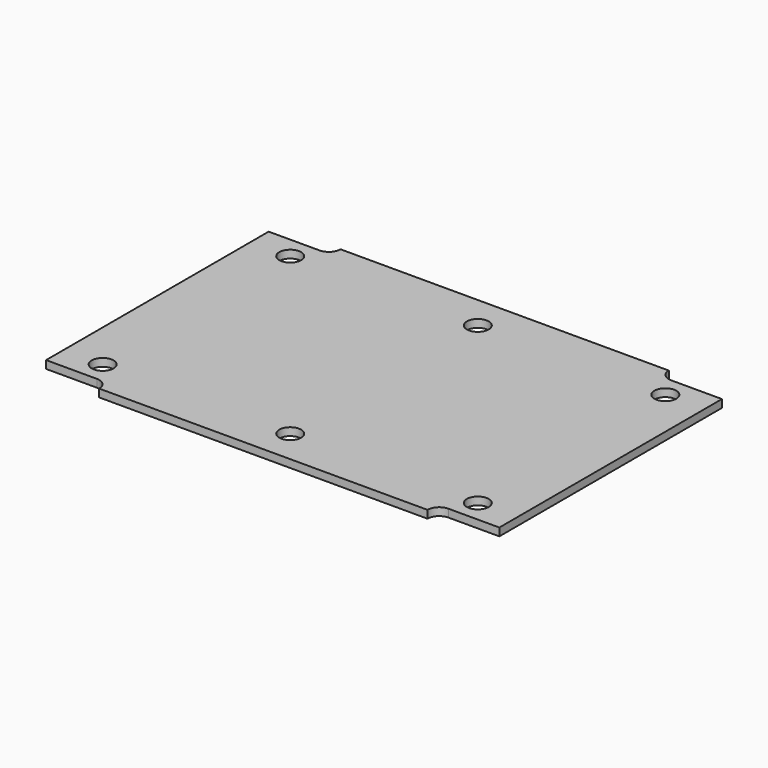
from build123d import *

# Parameters (mm, degrees)
F0_R     = 1.4
F1_DEPTH = 1


with BuildPart() as f1:
    # F0 (on Top) → F1 (new body)
    with BuildSketch(Plane.XY):
        with BuildLine():
            Line((29, 17.8), (22.5, 17.8))
            ThreePointArc((22.5, 17.8), (21.43934, 18.23934), (21, 19.3))
            Line((21, 19.3), (0, 19.3))
            Line((0, 19.3), (-21, 19.3))
            ThreePointArc((-21, 19.3), (-21.43934, 18.23934), (-22.5, 17.8))
            Line((-22.5, 17.8), (-29, 17.8))
            Line((-29, 17.8), (-29, 0))
            Line((-29, 0), (-29, -17.8))
            Line((-29, -17.8), (-22.5, -17.8))
            ThreePointArc((-22.5, -17.8), (-21.43934, -18.23934), (-21, -19.3))
            Line((-21, -19.3), (0, -19.3))
            Line((0, -19.3), (21, -19.3))
            ThreePointArc((21, -19.3), (21.43934, -18.23934), (22.5, -17.8))
            Line((22.5, -17.8), (29, -17.8))
            Line((29, -17.8), (29, 0))
            Line((29, 0), (29, 17.8))
        make_face()
        with Locations((-24, -15)):
            Circle(F0_R, mode=Mode.SUBTRACT)
        with Locations((0, -15)):
            Circle(F0_R, mode=Mode.SUBTRACT)
        with Locations((24, -15)):
            Circle(F0_R, mode=Mode.SUBTRACT)
        with Locations((-24, 15)):
            Circle(F0_R, mode=Mode.SUBTRACT)
        with Locations((0, 15)):
            Circle(F0_R, mode=Mode.SUBTRACT)
        with Locations((24, 15)):
            Circle(F0_R, mode=Mode.SUBTRACT)
    extrude(amount=F1_DEPTH)


solid = f1.part
